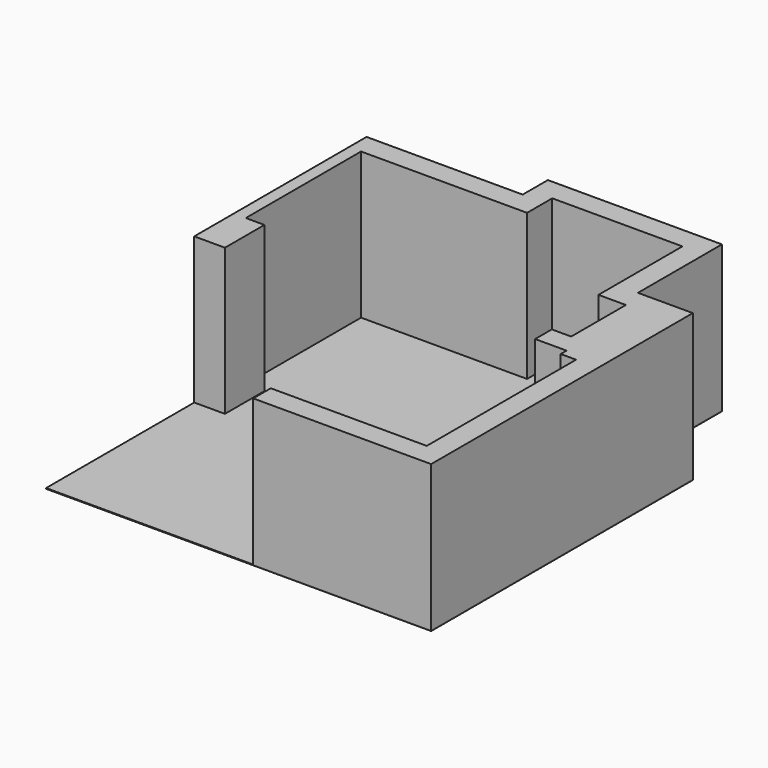
from build123d import *

# Parameters (mm, degrees)
F1_DEPTH = 2000
F2_DEPTH = 10


with BuildPart() as f1:
    # F0 (on Top) → F1 (new body)
    with BuildSketch(Plane.XY):
        Polygon((0, 2945), (0, 0), (420, 0), (420, 675), (165, 675), (165, 2645), (2435, 2645), (2435, 3075), (4215, 3075), (4215, 1640), (4590, 1640), (4590, 705), (4325, 705), (4325, 420), (4755, 420), (4755, 320), (4965, 320), (4965, -2232), (2832, -2232), (2832, -2532), (5265, -2532), (5265, 1940), (4515, 1940), (4515, 3375), (2135, 3375), (2135, 2945), align=None)
    extrude(amount=F1_DEPTH)


with BuildPart() as f2:
    # F0 (on Top) → F2 (new body)
    with BuildSketch(Plane.XY):
        Polygon((0, 2945), (0, 0), (420, 0), (420, 675), (165, 675), (165, 2645), (2435, 2645), (2435, 3075), (4215, 3075), (4215, 1640), (4590, 1640), (4590, 705), (4325, 705), (4325, 420), (4755, 420), (4755, 320), (4965, 320), (4965, -2232), (2832, -2232), (2832, -2532), (5265, -2532), (5265, 1940), (4515, 1940), (4515, 3375), (2135, 3375), (2135, 2945), align=None)
        Polygon((420, 0), (0, 0), (0, -2532), (2832, -2532), (2832, -2232), (4965, -2232), (4965, 320), (4755, 320), (4755, 420), (4325, 420), (4325, 705), (4590, 705), (4590, 1640), (4215, 1640), (4215, 3075), (2435, 3075), (2435, 2645), (165, 2645), (165, 675), (420, 675), align=None)
    extrude(amount=-F2_DEPTH)


solid = Compound([f1.part, f2.part])
